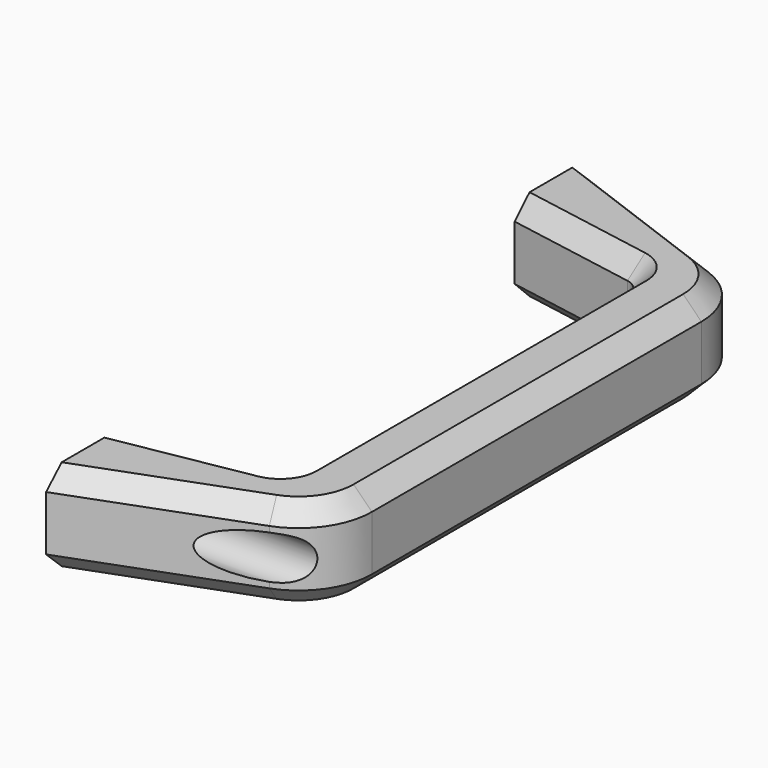
from build123d import *

# Parameters (mm, degrees)
F1_DEPTH = 20
F2_R     = 2.25
F3_DEPTH = 41.6719115054
F4_START = 4
F2_R_2   = 4.75
F4_DEPTH = 40.2887874281
F5_SIZE  = 4


with BuildPart() as f1:
    # F0 (on Top) → F1 (new body)
    with BuildSketch(Plane.XY):
        with BuildLine():
            Line((37.580910226, -14), (0, 0))
            Line((0, 0), (0, -20))
            Line((0, -20), (28.6947442364, -25.060795709))
            ThreePointArc((28.6947442364, -25.060795709), (31.0642272228, -26.428908495), (32, -29))
            Line((32, -29), (32, -119))
            ThreePointArc((32, -119), (31.0642272228, -121.571091505), (28.6947442364, -122.939204291))
            Line((28.6947442364, -122.939204291), (0, -128))
            Line((0, -128), (0, -148))
            Line((0, -148), (37.580910226, -134))
            ThreePointArc((37.580910226, -134), (45.1396680554, -128.1317773697), (48, -119))
            Line((48, -119), (48, -29))
            ThreePointArc((48, -29), (45.1396680554, -19.8682226303), (37.580910226, -14))
        make_face()
    extrude(amount=F1_DEPTH)

    # F2 (on Right) → F3 (cut, through all)
    with BuildSketch(Plane.YZ):
        with Locations((-14, 10)):
            Circle(F2_R)
        with Locations((-134, 10)):
            Circle(F2_R)
    extrude(amount=F3_DEPTH, mode=Mode.SUBTRACT)

    # F2 (on Right) → F4 (cut)
    with BuildSketch(Plane.YZ.offset(F4_START)):
        with Locations((-14, 10)):
            Circle(F2_R_2)
        with Locations((-14, 10)):
            Circle(F2_R, mode=Mode.SUBTRACT)
        with Locations((-134, 10)):
            Circle(F2_R_2)
        with Locations((-134, 10)):
            Circle(F2_R, mode=Mode.SUBTRACT)
    extrude(amount=F4_DEPTH, mode=Mode.SUBTRACT)

    # F5
    f5_edges = [f1.edges().sort_by_distance(p)[0] for p in [
        (31.064227, -26.428908, 20),
        (45.139668, -19.868223, 20),
        (31.064227, -26.428908, 0),
        (45.139668, -19.868223, 0),
    ]]
    chamfer(f5_edges, length=F5_SIZE)


solid = f1.part
